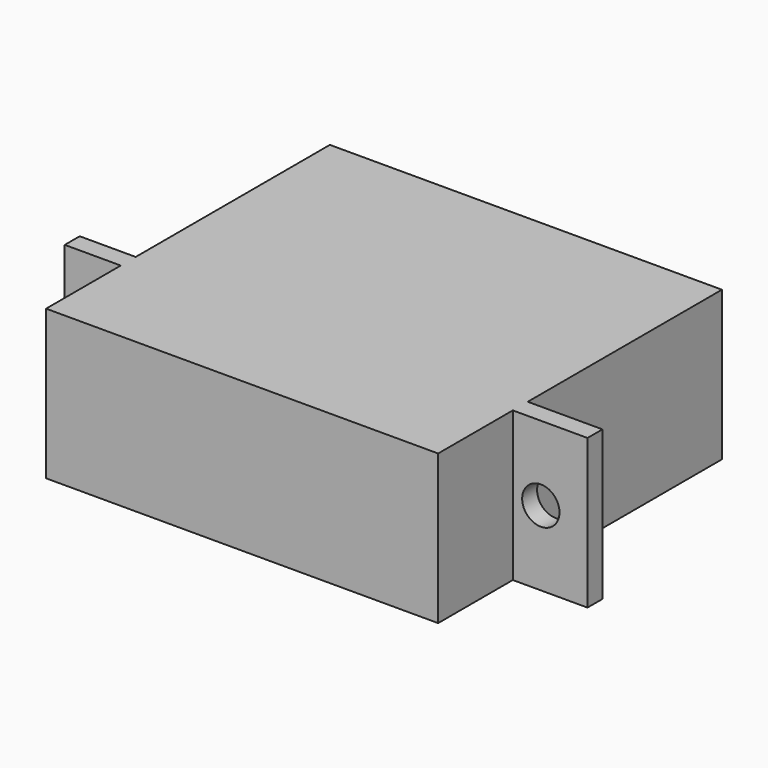
from build123d import *

# Parameters (mm, degrees)
CYLINDER323_R     = 1
CYLINDER323_DEPTH = 20
CYLINDER324_R     = 1
CYLINDER324_DEPTH = 20
BOX238_W          = 28
BOX238_H          = 1
BOX238_DEPTH      = 8
BOX237_W          = 21
BOX237_H          = 19
BOX237_DEPTH      = 8


with BuildPart() as zylinder325:
    # Cylinder323 → Cylinder323 (new body)
    with BuildSketch(Plane(origin=(22.5, 23, 30.5), x_dir=(1, 0, 0), z_dir=(0, -1, 0))):
        Circle(CYLINDER323_R)
    extrude(amount=CYLINDER323_DEPTH)


with BuildPart() as fusion215:
    # Cylinder324 → Cylinder324 (new body)
    with BuildSketch(Plane(origin=(-1.5, 23, 30.5), x_dir=(1, 0, 0), z_dir=(0, -1, 0))):
        Circle(CYLINDER324_R)
    extrude(amount=CYLINDER324_DEPTH)

    # Fusion215: union Zylinder325
    add(zylinder325.part)


with BuildPart() as obj1:
    # Box238 → Box238 (new body)
    with BuildSketch(Plane(origin=(-3, 5, 26.5), x_dir=(1, 0, 0), z_dir=(0, 0, 1))):
        with Locations((14, 0.5)):
            Rectangle(BOX238_W, BOX238_H)
    extrude(amount=BOX238_DEPTH)


with BuildPart() as obj2:
    # Box237 → Box237 (new body)
    with BuildSketch(Plane.XY.offset(26.5)):
        with Locations((10.5, 9.5)):
            Rectangle(BOX237_W, BOX237_H)
    extrude(amount=BOX237_DEPTH)

    # Fusion214: union obj1
    add(obj1.part)

    # Cut148: cut Fusion215
    add(fusion215.part, mode=Mode.SUBTRACT)


with BuildPart() as obj2_1:
    # Cut148 placement: moved
    add(obj2.part.moved(Location((19.5, 0, -1.75))))


solid = obj2_1.part
